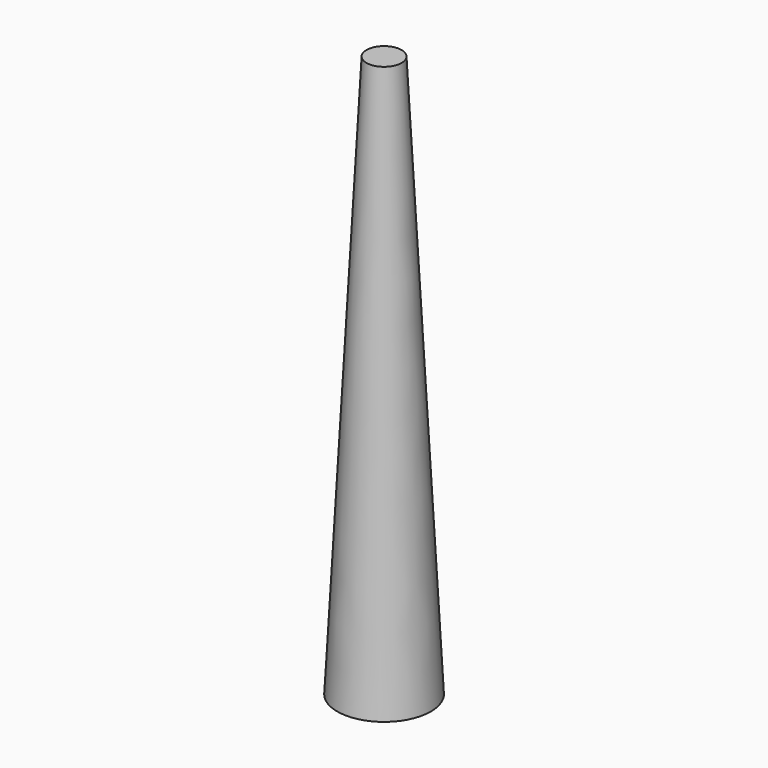
from build123d import *

# Parameters (mm, degrees)
F0_R       = 25.4
F1_DEPTH   = 304.8
F2_R       = 9.525
F1_FACE1_R = 25.4


with BuildPart() as f1:
    # F0 (on Top) → F1 (new body)
    with BuildSketch(Plane.XY):
        Circle(F0_R)
    extrude(amount=F1_DEPTH)

    # F2 (on face) → F3 section 0
    with BuildSketch(Plane.XY.offset(304.8)):
        Circle(F2_R)
    # F1_face1 (on face) → F3 section 1
    with BuildSketch(Plane(origin=(0, 0, 0), x_dir=(1, 0, 0), z_dir=(0, 0, -1))):
        Circle(F1_FACE1_R)
    loft(mode=Mode.INTERSECT)


solid = f1.part
